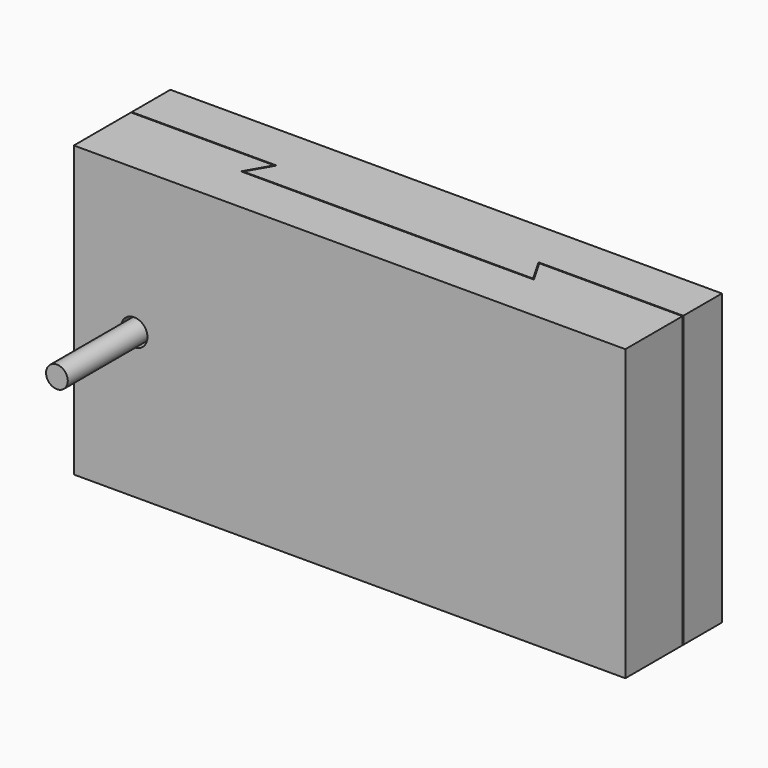
from build123d import *

# Parameters (mm, degrees)
F1_DEPTH = 60
F3_D     = 5.5
F3_2_D   = 5.5
F4_R     = 2.25
F5_DEPTH = 30


with BuildPart() as f1:
    # F0 (on Top) → F1 (new body)
    with BuildSketch(Plane.XY):
        Polygon((57.1132486541, 15), (-57.1132486541, 15), (-57.1132486541, 5), (-27.1132486541, 5), (-30, 0), (0, 0), (30, 0), (27.1132486541, 5), (57.1132486541, 5), align=None)
    extrude(amount=F1_DEPTH)

    # F3 (through all)
    with Locations(Plane(origin=(0, 15, 0), x_dir=(-1, 0, 0), z_dir=(0, 1, 0))):
        with Locations((44.6132486541, 30)):
            Hole(F3_D / 2)


with BuildPart() as f1b:
    # F0 (on Top) → F1, piece 2 (new body)
    with BuildSketch(Plane.XY):
        Polygon((-27.4596588156, 4.8), (-57.1132486541, 4.8), (-57.1132486541, -10), (57.1132486541, -10), (57.1132486541, 4.8), (27.4596588156, 4.8), (30.3464101615, -0.2), (0, -0.2), (-30.3464101615, -0.2), align=None)
    extrude(amount=F1_DEPTH)

    # F3#2 (through all)
    with Locations(Plane(origin=(0, 15, 0), x_dir=(-1, 0, 0), z_dir=(0, 1, 0))):
        with Locations((44.6132486541, 30)):
            Hole(F3_2_D / 2)


with BuildPart() as f5:
    # F4 (on Front) → F5 (new body, symmetric)
    with BuildSketch(Plane.XZ):
        with Locations((-44.6132486541, 30)):
            Circle(F4_R)
    extrude(amount=F5_DEPTH, both=True)


solid = Compound([f1.part, f1b.part, f5.part])
